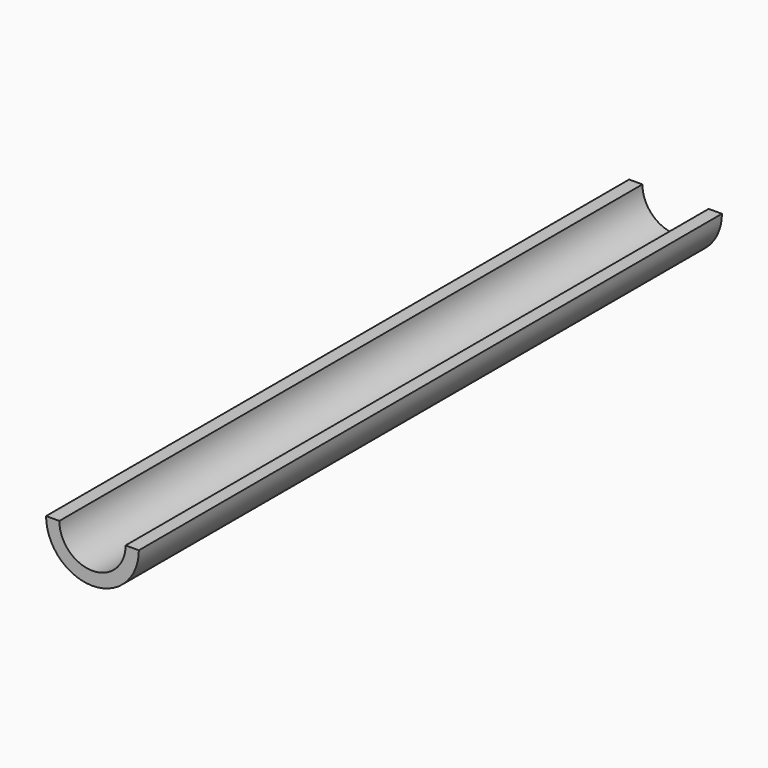
from build123d import *

# Parameters (mm, degrees)
F0_R     = 11.1125
F1_DEPTH = 87.3125
F2_R     = 7.9375
F3_DEPTH = 127
F4_W     = 41.7499989271
F4_H     = 12.747396715
F5_DEPTH = 127


with BuildPart() as f1:
    # F0 (on Front) → F1 (new body, symmetric)
    with BuildSketch(Plane.XZ):
        Circle(F0_R)
    extrude(amount=F1_DEPTH, both=True)

    # F2 (on Front) → F3 (cut, symmetric)
    with BuildSketch(Plane.XZ):
        Circle(F2_R)
    extrude(amount=F3_DEPTH, both=True, mode=Mode.SUBTRACT)

    # F4 (on Front) → F5 (cut, symmetric)
    with BuildSketch(Plane.XZ):
        with Locations((-0.1250002533, 6.3736983575)):
            Rectangle(F4_W, F4_H)
    extrude(amount=F5_DEPTH, both=True, mode=Mode.SUBTRACT)


solid = f1.part
